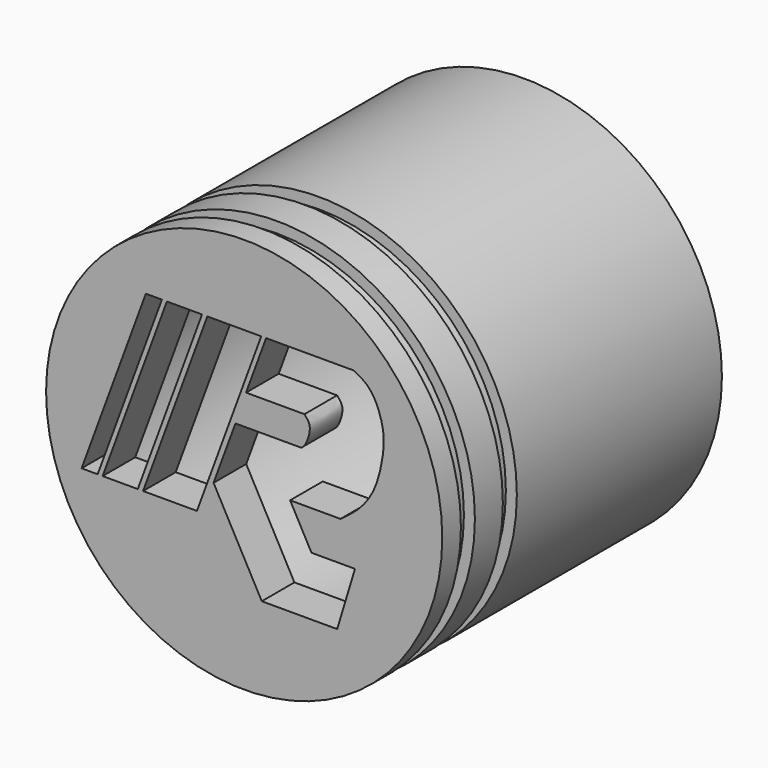
from build123d import *

# Parameters (mm, degrees)
F0_R     = 43.18
F1_DEPTH = 76.2
F3_DEPTH = 76.201
F4_R     = 38.1
F5_DEPTH = 67.31
F6_W     = 3.81
F6_H     = 2.54


with BuildPart() as f1:
    # F0 (on Front) → F1 (new body)
    with BuildSketch(Plane.XZ):
        Circle(F0_R)
    extrude(amount=-F1_DEPTH)

    # F2 (on Front) → F3 (cut, through all)
    with BuildSketch(Plane.XZ):
        Polygon((-21.434986513, 25.8488521843), (-35.4417645981, -12.2166163401), (-31.9433667717, -12.2166163401), (-17.9365886866, 25.8488521843), align=None)
        Polygon((-22.0389613365, -12.2166163401), (-10.2934986338, -12.2166163401), (3.7132794513, 25.8488521843), (-8.0321832514, 25.8488521843), align=None)
        Polygon((-16.8483592018, 25.8488521843), (-30.8551372869, -12.2166163401), (-23.1931219477, -12.2166163401), (-9.1863438626, 25.8488521843), align=None)
        with BuildLine():
            Line((4.7790936304, 25.8488521843), (0.4074209647, 13.9681921752))
            Line((0.4074209647, 13.9681921752), (13.1397311344, 13.9681921752))
            add(Edge.make_bspline(
                [(13.1397311344, 13.9681921752), (13.5623199674, 13.4908529986), (14.4433645606, 12.4956608219), (14.2607531046, 10.2552541119), (13.2775679328, 7.9123953601), (12.6805237168, 7.4737343771), (12.4528049578, 7.3064246)],
                knots=[0, 0, 0, 0, 0.2524611124, 0.5263496824, 0.8193449335, 1, 1, 1, 1], degree=3))
            Line((12.4528049578, 7.3064246), (-1.9049127084, 7.3064246))
            Line((-1.9049127084, 7.3064246), (-6.6714608383, -5.6473672505))
            Line((-6.6714608383, -5.6473672505), (3.8388244906, -24.9511478157))
            Line((3.8388244906, -24.9511478157), (20.2734413777, -24.9511478157))
            Line((20.2734413777, -24.9511478157), (24.1563424543, -12.1285331834))
            Line((24.1563424543, -12.1285331834), (14.6748356249, -12.1285331834))
            Line((14.6748356249, -12.1285331834), (10.0151892599, -3.5703648629))
            Line((10.0151892599, -3.5703648629), (20.99584212, -3.5703648629))
            add(Edge.make_bspline(
                [(23.8076338339, 25.8488521843), (24.8241026662, 25.3389018018), (26.9075174339, 24.2936772717), (29.0501970552, 21.1204133476), (30.72383942, 15.9362694954), (30.1770180196, 10.5156157051), (28.7431916568, 4.5225535349), (25.4079508495, -0.3677177865), (22.4492557888, -2.5153656953), (20.99584212, -3.5703648629)],
                knots=[0, 0, 0, 0, 0.1175129286, 0.2408614638, 0.3885970952, 0.5383784175, 0.6968239202, 0.8510693906, 1, 1, 1, 1], degree=3))
            Line((23.8076338339, 25.8488521843), (4.7790936304, 25.8488521843))
        make_face()
    extrude(amount=-F3_DEPTH, mode=Mode.SUBTRACT)

    # F4 (on face) → F5 (cut)
    with BuildSketch(Plane(origin=(0, 76.2, 0), x_dir=(-1, 0, 0), z_dir=(0, 1, 0))):
        Circle(F4_R)
    extrude(amount=-F5_DEPTH, mode=Mode.SUBTRACT)

    # F6 (on Right) → F7 (revolve, cut)
    with BuildSketch(Plane.YZ):
        with Locations((6.985, 42.0579532842)):
            Rectangle(F6_W, F6_H)
        with Locations((18.415, 42.0579532842)):
            Rectangle(F6_W, F6_H)
    revolve(axis=Axis((0, 34.9276592024, 0), (0, -1, 0)), mode=Mode.SUBTRACT)


solid = f1.part
